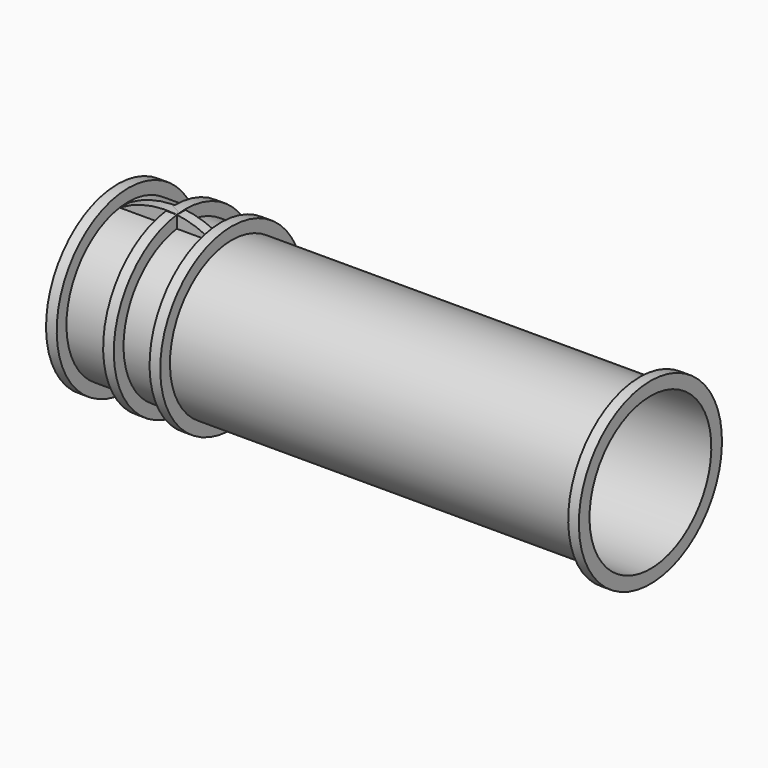
from build123d import *

# Parameters (mm, degrees)
F6_R     = 235
F7_DEPTH = 28


with BuildPart() as f2:
    # F0 (on Front) → F2 (revolve)
    with BuildSketch(Plane.XZ):
        Polygon((0, 235), (0, 200), (1250, 200), (1250, 235), (1222, 235), (1222, 203), (28, 203), (28, 235), align=None)
    revolve(axis=Axis((-36.346368, 0, 0), (1, 0, 0)))


with BuildPart() as f5:
    # F4 (on Front) → F5 (revolve)
    with BuildSketch(Plane.XZ):
        Polygon((-150, 235), (-150, 200), (150, 200), (150, 235), (122, 235), (122, 203), (-122, 203), (-122, 235), align=None)
    revolve(axis=Axis((-36.346368, 0, 0), (1, 0, 0)))


with BuildPart() as f7:
    # F6 (on Front) → F7 (new body)
    with BuildSketch(Plane.XZ):
        Circle(F6_R)
    extrude(amount=F7_DEPTH)


solid = Compound([f2.part, f5.part, f7.part])
